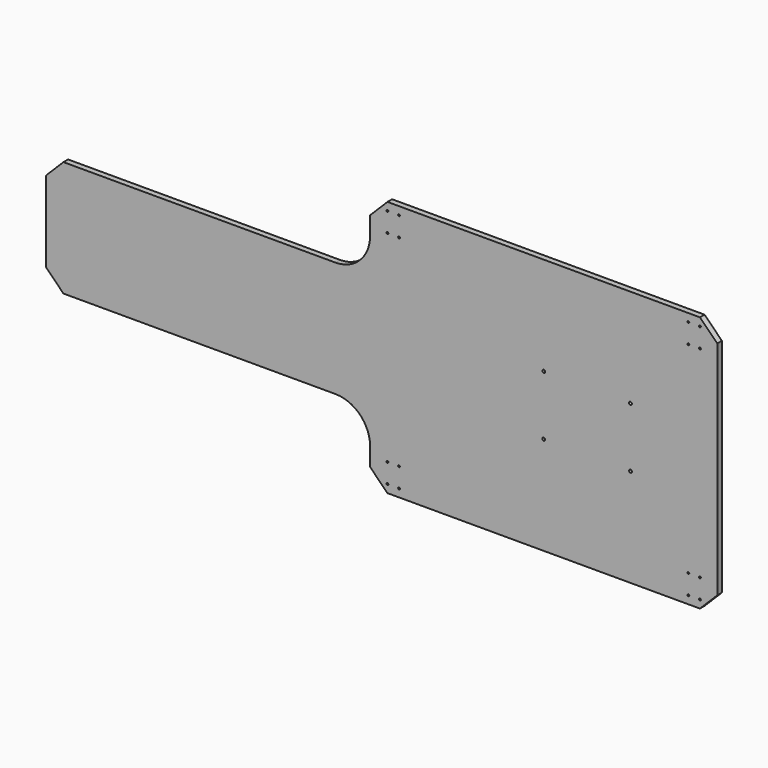
from build123d import *

# Parameters (mm, degrees)
F1_DEPTH = 12.7
F2_SIZE2 = 38.1
F2_SIZE  = 38.1
F4_D     = 6.35
F6_D     = 3.96875


with BuildPart() as f1:
    # F0 (on Front) → F1 (new body)
    with BuildSketch(Plane.XZ):
        with BuildLine():
            Line((711.2, 78.1812), (711.2, 0))
            Line((711.2, 0), (1473.2, 0))
            Line((1473.2, 0), (1473.2, 562.7624))
            Line((1473.2, 562.7624), (711.2, 562.7624))
            Line((711.2, 562.7624), (711.2, 484.5812))
            ThreePointArc((711.2, 484.5812), (688.881537, 430.699663), (635, 408.3812))
            Line((635, 408.3812), (0, 408.3812))
            Line((0, 408.3812), (0, 154.3812))
            Line((0, 154.3812), (635, 154.3812))
            ThreePointArc((635, 154.3812), (688.881537, 132.062737), (711.2, 78.1812))
        make_face()
    extrude(amount=F1_DEPTH)

    # F2
    f2_edges = [f1.edges().sort_by_distance(p)[0] for p in [
        (711.2, -6.35, 562.7624),
        (711.2, -6.35, 0),
        (1473.2, -6.35, 0),
        (1473.2, -6.35, 562.7624),
        (0, -6.35, 154.3812),
        (0, -6.35, 408.3812),
    ]]
    chamfer(f2_edges, length=F2_SIZE, length2=F2_SIZE2)

    # F4 (through all)
    with Locations(Plane.XZ.offset(12.7)):
        with Locations((1092.2, 215.9), (1092.2, 346.8624), (1282.7, 346.8624), (1282.7, 215.9)):
            Hole(F4_D / 2)

    # F6 (through all)
    with Locations(Plane.XZ.offset(12.7)):
        with Locations((749.293897, 545.3126), (749.293897, 502.4374), (774.693897, 502.4374), (774.693897, 545.3126), (749.293897, 60.325), (774.693897, 17.4498), (749.293897, 17.4498), (774.693897, 60.325), (1409.706103, 502.4374), (1435.106103, 502.4374), (1435.106103, 545.3126), (1409.706103, 545.3126), (1409.706103, 17.4498), (1435.106103, 17.4498), (1435.106103, 60.325), (1409.706103, 60.325)):
            Hole(F6_D / 2)


solid = f1.part
